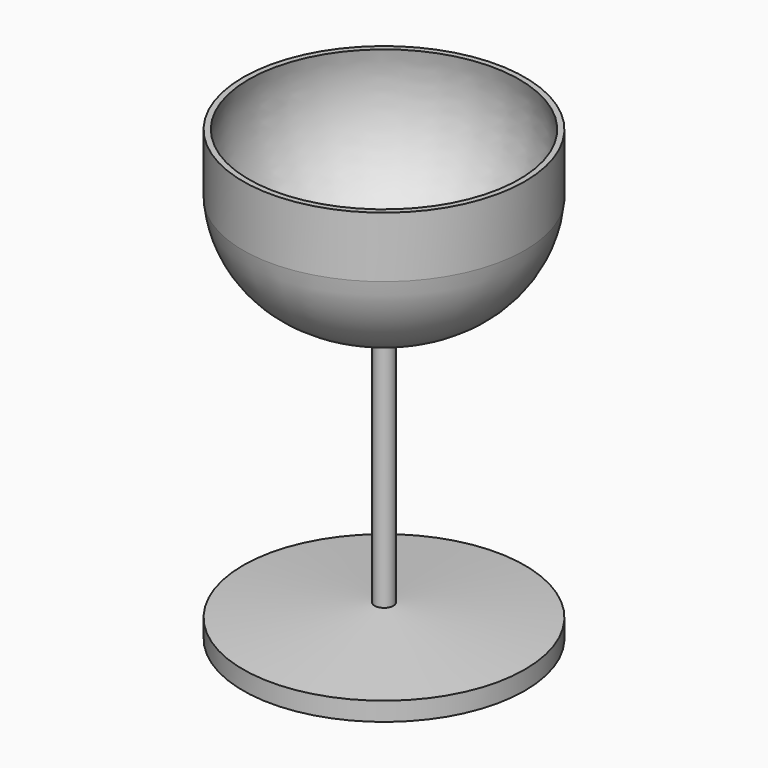
from build123d import *


with BuildPart() as f1:
    # F0 (on Front) → F1 (revolve)
    with BuildSketch(Plane.XZ):
        with BuildLine():
            Line((-47.903051, 0), (-38.404208, 0))
            ThreePointArc((-38.404208, 0), (-19.511023, 4.873279), (0, 5.019141))
            Line((0, 5.019141), (0, 101.9006))
            ThreePointArc((0, 101.9006), (-36.532312, 114.821918), (-45.990533, 152.4))
            Line((-45.990533, 152.4), (-47.903051, 152.4))
            Line((-47.903051, 152.4), (-47.903051, 131.76902))
            ThreePointArc((-47.903051, 131.76902), (-33.050799, 104.889711), (-3.175, 97.781743))
            Line((-3.175, 97.781743), (-3.175, 10.84711))
            Line((-3.175, 10.84711), (-47.903051, 6.35))
            Line((-47.903051, 6.35), (-47.903051, 0))
        make_face()
    revolve(axis=Axis((0, 0, 53.459871), (0, 0, -1)))


solid = f1.part
